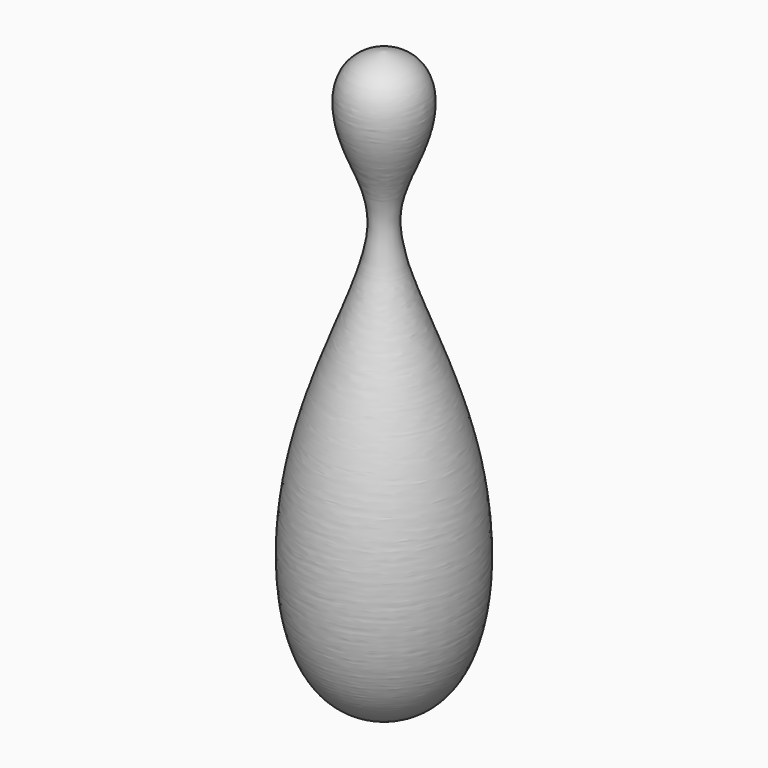
from build123d import *


with BuildPart() as f1:
    # F0 (on Front) → F1 (revolve)
    with BuildSketch(Plane.XZ):
        with BuildLine():
            add(Edge.make_bspline(
                [(0, -11.2945209744), (-6.4622364007, -11.2635223195), (-8.2316358455, 6.8173097504), (1.1474011038, 21.5939015863), (-3.5121223146, 27.6214671153), (-3.3400971491, 33.2177409067), (0, 33.7054790256)],
                knots=[0, 0, 0, 0, 0.3114535534, 0.6244112925, 0.8152907911, 1, 1, 1, 1], degree=3))
            Line((0, -11.2945209744), (0, -9.0360622853))
            add(Edge.make_bspline(
                [(0, 19.8317170143), (-2.5672985773, 12.5359903919), (-5.673512587, 2.0003181446), (-3.8204924203, -9.0427156538), (0, -9.0360622853)],
                knots=[0, 0, 0, 0, 0.5866441613, 1, 1, 1, 1], degree=3))
            Line((0, 19.8317170143), (0, 33.7054790256))
        make_face()
    revolve(axis=Axis((0, 0, 30.1728209905), (0, 0, -1)))


solid = f1.part
